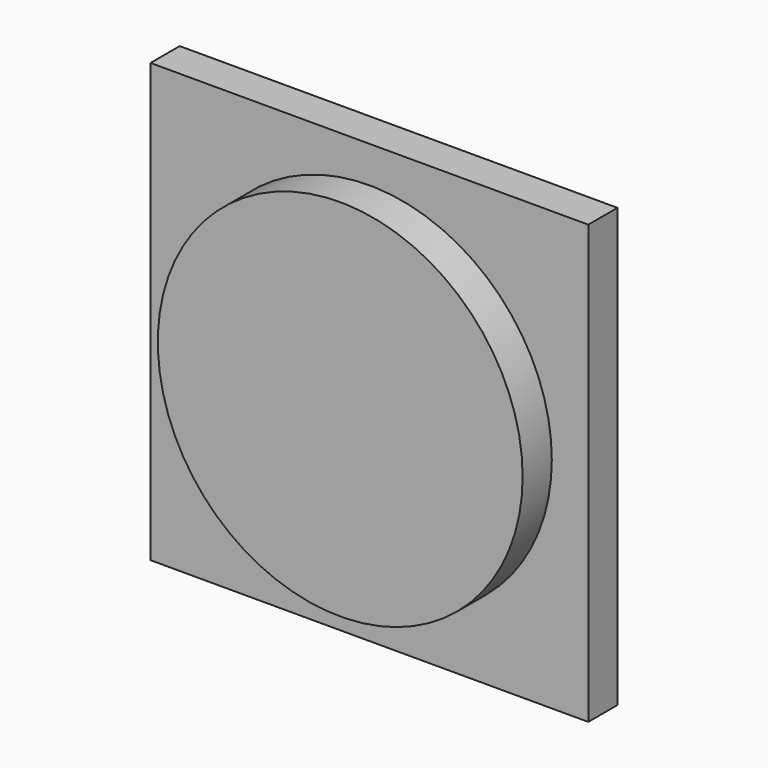
from build123d import *

# Parameters (mm, degrees)
F0_W     = 152.4
F0_H     = 152.4
F0_R     = 63.5
F1_DEPTH = 12.7
F2_DEPTH = 25.4


with BuildPart() as f1:
    # F0 (on Front) → F1 (new body)
    with BuildSketch(Plane.XZ):
        with Locations((-14.952762, 3.492553)):
            Rectangle(F0_W, F0_H)
        with Locations((-14.952762, 3.492553)):
            Circle(F0_R, mode=Mode.SUBTRACT)
    extrude(amount=F1_DEPTH)

    # F0 (on Front) → F2 (join)
    with BuildSketch(Plane.XZ):
        with Locations((-14.952762, 3.492553)):
            Circle(F0_R)
    extrude(amount=F2_DEPTH)


solid = f1.part
